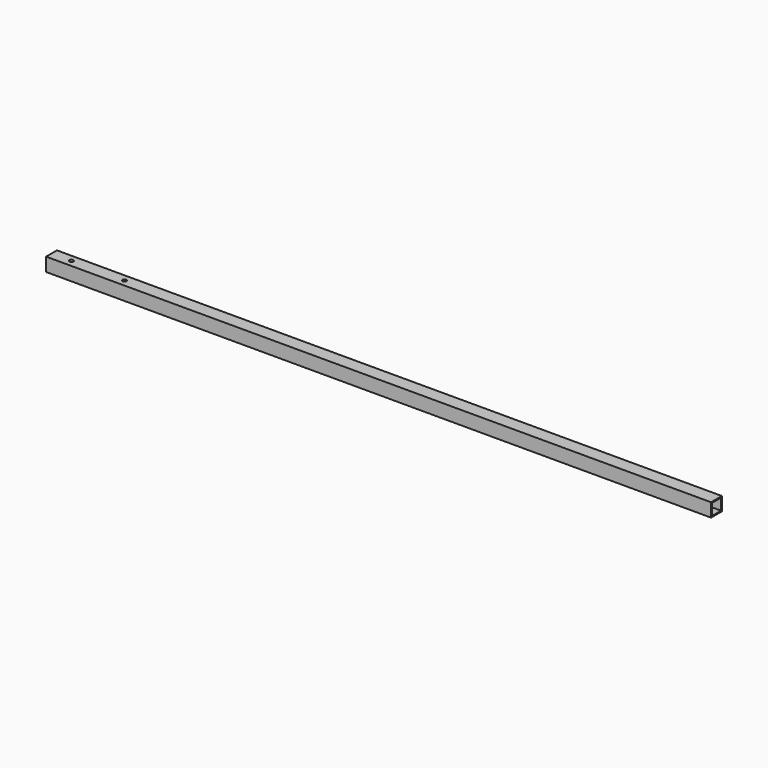
from build123d import *

# Parameters (mm, degrees)
F0_W     = 500
F0_H     = 10.2
F0_R     = 1.5
F1_DEPTH = 10.2
F2_T     = -0.8


with BuildPart() as f1:
    # F0 (on Top) → F1 (new body)
    with BuildSketch(Plane.XY):
        Rectangle(F0_W, F0_H)
        with Locations((-235, 0)):
            Circle(F0_R, mode=Mode.SUBTRACT)
        with Locations((-195, 0)):
            Circle(F0_R, mode=Mode.SUBTRACT)
    extrude(amount=F1_DEPTH)

    # F2
    f2_openings = [f1.faces().sort_by_distance(p)[0] for p in [
        (250, 0, 5.1),
        (-250, 0, 5.1),
    ]]
    offset(amount=F2_T, openings=f2_openings)


solid = f1.part
